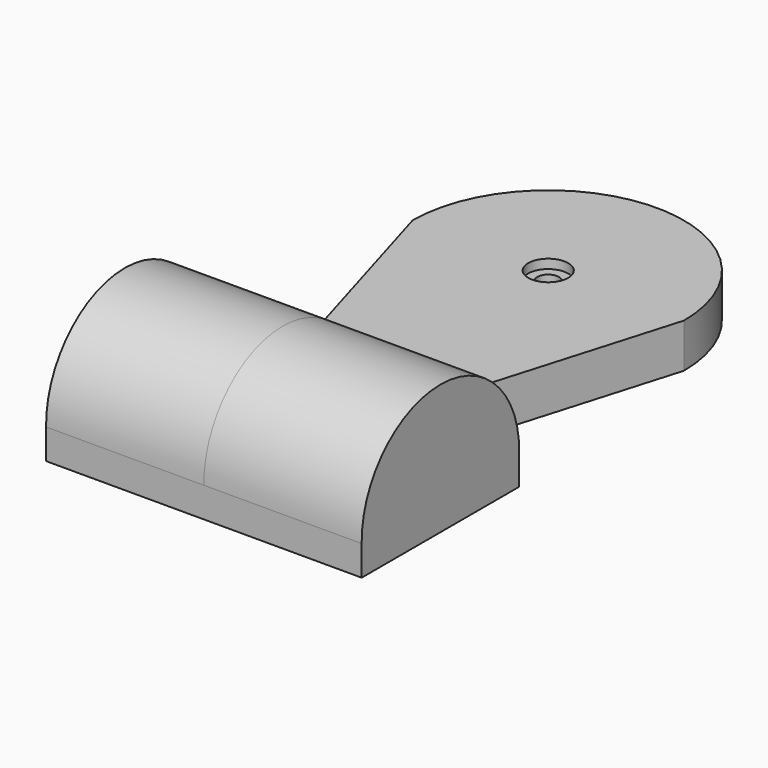
from build123d import *

# Parameters (mm, degrees)
F0_R     = 3.1652149855
F1_DEPTH = 7
F3_DEPTH = 25
F5_DEPTH = 3
F7_R     = 3.1652149855
F7_R_2   = 1.7
F8_DEPTH = 2


with BuildPart() as f1:
    # F0 (on Top) → F1 (new body)
    with BuildSketch(Plane.XY):
        with BuildLine():
            Line((7.6635631778, -0.8648966905), (21.4957091957, 46.0475608706))
            ThreePointArc((21.4957091957, 46.0475608706), (0, 67.5432700664), (-21.4957091957, 46.0475608706))
            Line((-21.4957091957, 46.0475608706), (-7.6635631778, -0.8648966905))
            Line((-7.6635631778, -0.8648966905), (7.6635631778, -0.8648966905))
        make_face()
        with BuildLine():
            ThreePointArc((17, 49.0475608706), (20, 46.0475608706), (17, 43.0475608706))
            Line((17, 43.0475608706), (5.6355242597, 40.232100229))
            Line((5.6355242597, 40.232100229), (3, 29.0475608706))
            ThreePointArc((3, 29.0475608706), (0, 26.0475608706), (-3, 29.0475608706))
            Line((-3, 29.0475608706), (-5.6355242597, 40.232100229))
            Line((-5.6355242597, 40.232100229), (-17, 43.0475608706))
            ThreePointArc((-17, 43.0475608706), (-20, 46.0475608706), (-17, 49.0475608706))
            Line((-17, 49.0475608706), (-5.6355242597, 51.8630215122))
            Line((-5.6355242597, 51.8630215122), (-3, 63.0475608706))
            ThreePointArc((-3, 63.0475608706), (0, 66.0475608706), (3, 63.0475608706))
            Line((3, 63.0475608706), (5.6355242597, 51.8630215122))
            Line((5.6355242597, 51.8630215122), (17, 49.0475608706))
        make_face(mode=Mode.SUBTRACT)
        with BuildLine():
            Line((5.6355242597, 40.232100229), (17, 43.0475608706))
            ThreePointArc((17, 43.0475608706), (20, 46.0475608706), (17, 49.0475608706))
            Line((17, 49.0475608706), (5.6355242597, 51.8630215122))
            Line((5.6355242597, 51.8630215122), (3, 63.0475608706))
            ThreePointArc((3, 63.0475608706), (0, 66.0475608706), (-3, 63.0475608706))
            Line((-3, 63.0475608706), (-5.6355242597, 51.8630215122))
            Line((-5.6355242597, 51.8630215122), (-17, 49.0475608706))
            ThreePointArc((-17, 49.0475608706), (-20, 46.0475608706), (-17, 43.0475608706))
            Line((-17, 43.0475608706), (-5.6355242597, 40.232100229))
            Line((-5.6355242597, 40.232100229), (-3, 29.0475608706))
            ThreePointArc((-3, 29.0475608706), (0, 26.0475608706), (3, 29.0475608706))
            Line((3, 29.0475608706), (5.6355242597, 40.232100229))
        make_face()
        with Locations((0, 46.0475608706)):
            Circle(F0_R, mode=Mode.SUBTRACT)
    extrude(amount=F1_DEPTH)

    # F2 (on Right) → F3 (join)
    with BuildSketch(Plane.YZ):
        with BuildLine():
            Line((-22.1495963633, 4.7701704316), (9.0307667851, 4.7701704316))
            ThreePointArc((9.0307667851, 4.7701704316), (9.0416852427, 4.809647179), (9.0525037393, 4.8491514374))
            ThreePointArc((9.0525037393, 4.8491514374), (-6.5885383667, 20.6088531813), (-22.1495963633, 4.7701704316))
        make_face()
        Polygon((9.0307667851, 4.168368876), (9.0307667851, 4.7701704316), (-22.1495963633, 4.7701704316), (-22.1495963633, 0), (9.0307667851, 0), align=None)
        with BuildLine():
            ThreePointArc((9.0525037393, 4.8491514374), (9.0416852427, 4.809647179), (9.0307667851, 4.7701704316))
            Line((9.0307667851, 4.7701704316), (9.0307667851, 4.168368876))
            ThreePointArc((9.0307667851, 4.168368876), (9.0453507005, 4.5086415251), (9.0525037393, 4.8491514374))
        make_face()
    extrude(amount=F3_DEPTH)

    # F4: F1 across plane


with BuildPart() as f1_1:
    add(f1.part)
    add(f1.part.mirror(Plane.YZ))

    # F0 (on Top) → F5 (cut)
    with BuildSketch(Plane.XY):
        with BuildLine():
            Line((5.6355242597, 40.232100229), (17, 43.0475608706))
            ThreePointArc((17, 43.0475608706), (20, 46.0475608706), (17, 49.0475608706))
            Line((17, 49.0475608706), (5.6355242597, 51.8630215122))
            Line((5.6355242597, 51.8630215122), (3, 63.0475608706))
            ThreePointArc((3, 63.0475608706), (0, 66.0475608706), (-3, 63.0475608706))
            Line((-3, 63.0475608706), (-5.6355242597, 51.8630215122))
            Line((-5.6355242597, 51.8630215122), (-17, 49.0475608706))
            ThreePointArc((-17, 49.0475608706), (-20, 46.0475608706), (-17, 43.0475608706))
            Line((-17, 43.0475608706), (-5.6355242597, 40.232100229))
            Line((-5.6355242597, 40.232100229), (-3, 29.0475608706))
            ThreePointArc((-3, 29.0475608706), (0, 26.0475608706), (3, 29.0475608706))
            Line((3, 29.0475608706), (5.6355242597, 40.232100229))
        make_face()
        with Locations((0, 46.0475608706)):
            Circle(F0_R, mode=Mode.SUBTRACT)
    extrude(amount=F5_DEPTH, mode=Mode.SUBTRACT)

    # F7 (on offset) → F8 (join)
    with BuildSketch(Plane.XY.offset(3.556)):
        with Locations((0, 46.0307821631)):
            Circle(F7_R)
        with Locations((0, 46.0307821631)):
            Circle(F7_R_2, mode=Mode.SUBTRACT)
    extrude(amount=F8_DEPTH)


solid = f1_1.part
